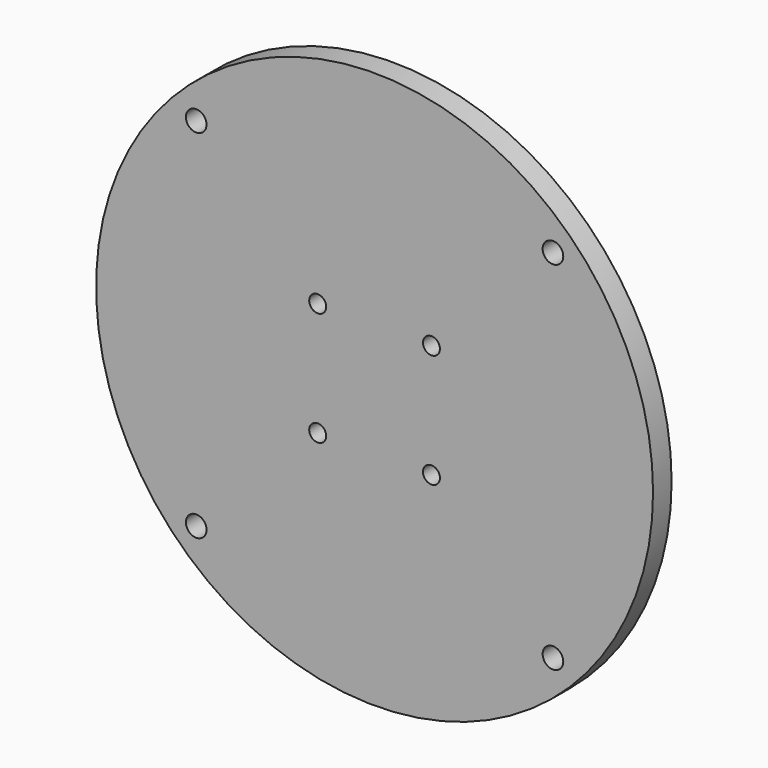
from build123d import *

# Parameters (mm, degrees)
F0_R     = 38.0889
F0_R_2   = 1.4111
F0_R_3   = 1.1611
F1_DEPTH = 3.175


with BuildPart() as f1:
    # F0 (on Front) → F1 (new body)
    with BuildSketch(Plane.XZ):
        Circle(F0_R)
        with Locations((-24.395184, -24.395184)):
            Circle(F0_R_2, mode=Mode.SUBTRACT)
        with Locations((-7.778175, -7.778175)):
            Circle(F0_R_3, mode=Mode.SUBTRACT)
        with Locations((24.395184, -24.395184)):
            Circle(F0_R_2, mode=Mode.SUBTRACT)
        with Locations((7.778175, -7.778175)):
            Circle(F0_R_3, mode=Mode.SUBTRACT)
        with Locations((-7.778175, 7.778175)):
            Circle(F0_R_3, mode=Mode.SUBTRACT)
        with Locations((-24.395184, 24.395184)):
            Circle(F0_R_2, mode=Mode.SUBTRACT)
        with Locations((7.778175, 7.778175)):
            Circle(F0_R_3, mode=Mode.SUBTRACT)
        with Locations((24.395184, 24.395184)):
            Circle(F0_R_2, mode=Mode.SUBTRACT)
    extrude(amount=F1_DEPTH)


solid = f1.part
